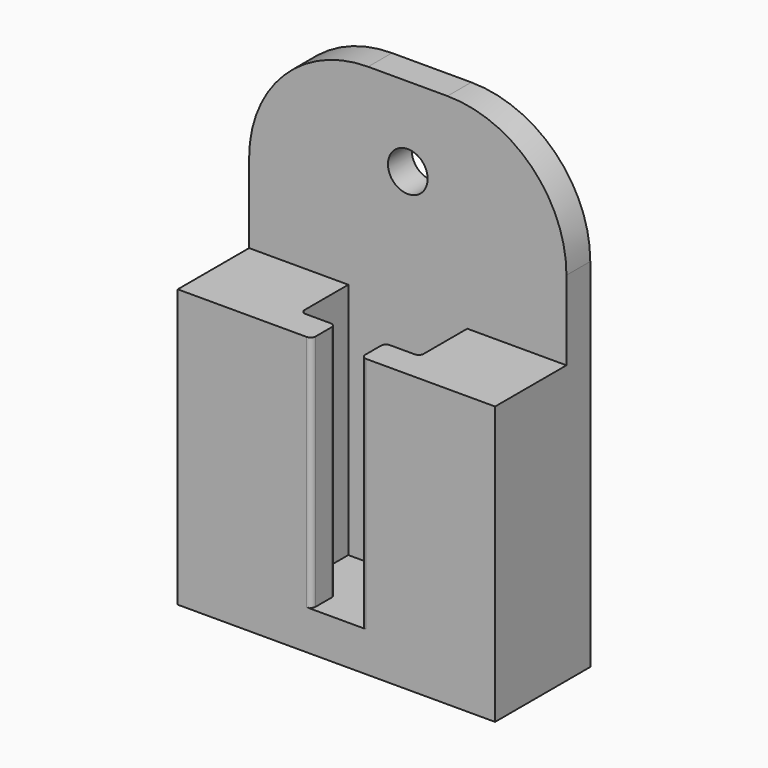
from build123d import *

# Parameters (mm, degrees)
F0_W      = 25.4
F0_H      = 38.1
F1_DEPTH  = 9.525
F2_W      = 3.96875
F2_H      = 2.38125
F3_DEPTH  = 22.225
F4_W      = 25.4
F4_H      = 15.875
F5_DEPTH  = 7.14375
F6_R      = 9.525
F7_R      = 0.396875
F8_W      = 25.4
F8_H      = 9.525
F9_DEPTH  = 3.175
F10_R     = 1.5875
F11_DEPTH = 2.38225


with BuildPart() as f1:
    # F0 (on Front) → F1 (new body)
    with BuildSketch(Plane.XZ):
        with Locations((0, 19.05)):
            Rectangle(F0_W, F0_H)
    extrude(amount=F1_DEPTH)

    # F2 (on Top) → F3 (cut)
    with BuildSketch(Plane.XY):
        Polygon((4.7625, -2.38125), (-4.7625, -2.38125), (-4.7625, -7.14375), (-1.984375, -7.14375), (1.984375, -7.14375), (4.7625, -7.14375), align=None)
        with Locations((0, -8.334375)):
            Rectangle(F2_W, F2_H)
    extrude(amount=F3_DEPTH, mode=Mode.SUBTRACT)

    # F4 (on face) → F5 (cut)
    with BuildSketch(Plane.XZ.offset(9.525)):
        with Locations((0, 30.1625)):
            Rectangle(F4_W, F4_H)
    extrude(amount=-F5_DEPTH, mode=Mode.SUBTRACT)

    # F6
    f6_edges = [f1.edges().sort_by_distance(p)[0] for p in [
        (12.7, -1.190625, 38.1),
        (-12.7, -1.190625, 38.1),
    ]]
    fillet(f6_edges, radius=F6_R)

    # F7
    f7_edges = [f1.edges().sort_by_distance(p)[0] for p in [
        (-4.7625, -7.14375, 11.1125),
        (4.7625, -7.14375, 11.1125),
        (1.984375, -7.14375, 11.1125),
        (1.984375, -9.525, 11.1125),
        (-1.984375, -7.14375, 11.1125),
        (-1.984375, -9.525, 11.1125),
    ]]
    fillet(f7_edges, radius=F7_R)

    # F8 (on face) → F9 (join)
    with BuildSketch(Plane(origin=(0, 0, 0), x_dir=(1, 0, 0), z_dir=(0, 0, -1))):
        with Locations((0, 4.7625)):
            Rectangle(F8_W, F8_H)
    extrude(amount=-F9_DEPTH)

    # F10 (on face) → F11 (cut, through all)
    with BuildSketch(Plane.XZ.offset(2.38125)):
        with Locations((0, 31.75)):
            Circle(F10_R)
    extrude(amount=-F11_DEPTH, mode=Mode.SUBTRACT)


solid = f1.part
